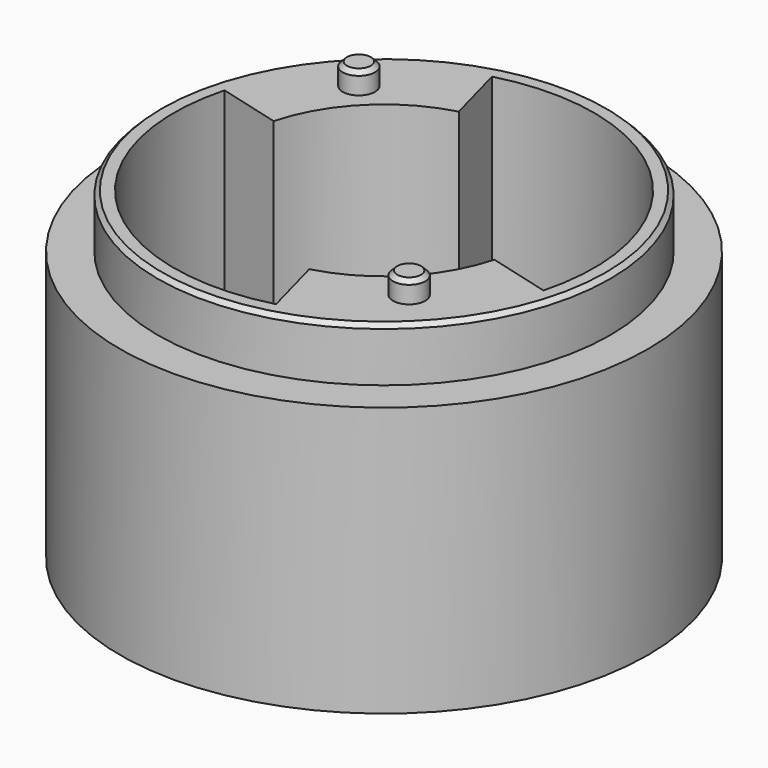
from build123d import *

# Parameters (mm, degrees)
SKETCH005_R           = 12.25
SKETCH005_R_2         = 1.75
PAD004_DEPTH          = 2.5
CHAMFER001_SIZE       = 2
PAD005_DEPTH          = 12.5
POLARPATTERN001_COUNT = 2
SKETCH008_R           = 0.75
PAD006_DEPTH          = 1
POLARPATTERN002_COUNT = 2
CHAMFER002_SIZE       = 0.2


with BuildPart() as part:
    # Sketch005 → Pad004 (new body)
    with BuildSketch(Plane.XY):
        Circle(SKETCH005_R)
        Circle(SKETCH005_R_2, mode=Mode.SUBTRACT)
    extrude(amount=-PAD004_DEPTH)

    # Chamfer001
    chamfer001_edges = [part.edges().sort_by_distance(p)[0] for p in [
        (-1.75, 0, -2.5),
    ]]
    chamfer(chamfer001_edges, length=CHAMFER001_SIZE)

    # Sketch006 → Revolution (revolve)
    with BuildSketch(Plane.XZ):
        Polygon((12.25, 0), (12.25, 10), (10.5, 10), (10.5, 12.5), (9.75, 12.5), (9.75, 0), align=None)
    revolve(axis=Axis((0, 0, 0), (0, 0, 1)))

    # Sketch007 → Pad005 (join)
    with BuildSketch(Plane.XY):
        with BuildLine():
            ThreePointArc((-2.523486, 9.417777), (-6.894291, 6.894291), (-9.417777, 2.523486))
            Line((-6.519999, 1.747029), (-9.417777, 2.523486))
            ThreePointArc((-1.747029, 6.519999), (-4.772971, 4.772971), (-6.519999, 1.747029))
            Line((-2.523486, 9.417777), (-1.747029, 6.519999))
        make_face()
    pad005 = extrude(amount=PAD005_DEPTH)

    # PolarPattern001: Pad005 ×2 about axis
    polarpattern001_axis = Axis((0, 0, 0), (0, 0, 1))
    for i in range(1, POLARPATTERN001_COUNT):
        add(pad005.rotate(polarpattern001_axis, i * 360 / POLARPATTERN001_COUNT))

    # Sketch008 (on DatumPlane) → Pad006 (join)
    with BuildSketch(Plane.XY.offset(12.5)):
        with Locations((-5.833631, 5.833631)):
            Circle(SKETCH008_R)
    pad006 = extrude(amount=PAD006_DEPTH)

    # PolarPattern002: Pad006 ×2 about axis
    polarpattern002_axis = Axis((0, 0, 12.5), (0, 0, 1))
    for i in range(1, POLARPATTERN002_COUNT):
        add(pad006.rotate(polarpattern002_axis, i * 360 / POLARPATTERN002_COUNT))

    # Chamfer002
    chamfer002_edges = [part.edges().sort_by_distance(p)[0] for p in [
        (-6.583631, 5.833631, 13.5),
        (6.583631, -5.833631, 13.5),
        (-10.5, 0, 12.5),
    ]]
    chamfer(chamfer002_edges, length=CHAMFER002_SIZE)


solid = part.part
